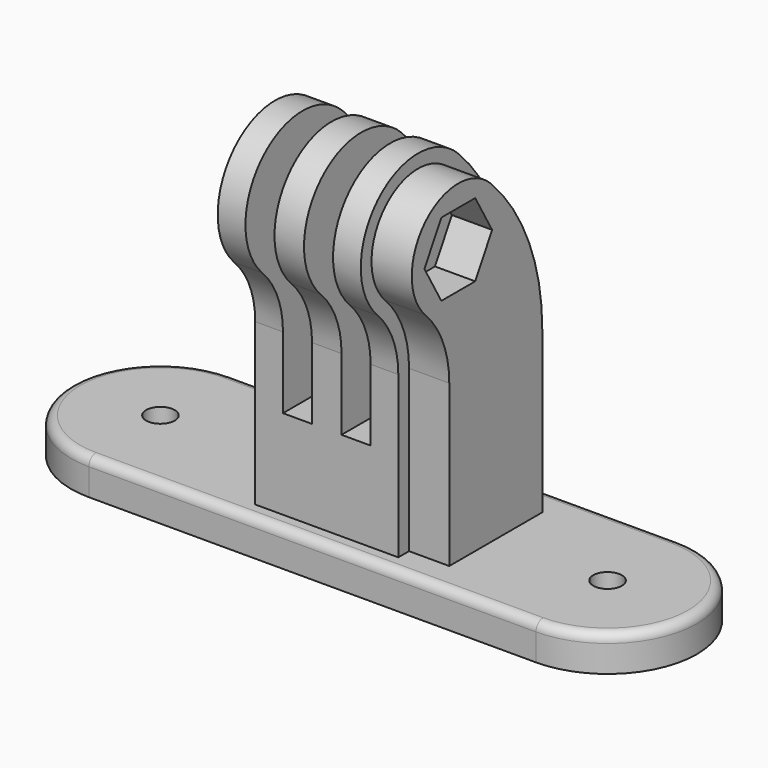
from build123d import *

# Parameters (mm, degrees)
PAD_DEPTH       = 4
SKETCH001_R     = 1.6
POCKET_DEPTH    = 4.001
SKETCH002_W     = 16
SKETCH002_H     = 16
PAD001_DEPTH    = 10
PAD002_DEPTH    = 3.1
PAD003_DEPTH    = 1.65
SKETCH005_R     = 2.6
POCKET001_DEPTH = 43.001
PAD004_DEPTH    = 4.5
POCKET002_DEPTH = 4.5
FILLET_R        = 1
PAD009_DEPTH    = 4
SKETCH013_R     = 1.6
POCKET004_DEPTH = 4.001
SKETCH014_W     = 16
SKETCH014_H     = 16
PAD008_DEPTH    = 10
PAD007_DEPTH    = 3.1
PAD005_DEPTH    = 1.65
SKETCH010_R     = 2.6
POCKET003_DEPTH = 43.001
PAD006_DEPTH    = 4.5
POCKET005_DEPTH = 4.5
FILLET001_R     = 1


with BuildPart() as straighttwoscrews:
    # Sketch → Pad (new body)
    with BuildSketch(Plane.XY):
        with BuildLine():
            Line((-25, 10), (25, 10))
            ThreePointArc((25, -10), (35, 0), (25, 10))
            Line((-25, -10), (25, -10))
            ThreePointArc((-25, 10), (-35, 0), (-25, -10))
        make_face()
    extrude(amount=PAD_DEPTH)

    # Sketch001 (on Face6 of Pad) → Pocket (cut, through all)
    with BuildSketch(Plane.XY.offset(4)):
        with Locations((-25, 0)):
            Circle(SKETCH001_R)
        with Locations((25, 0)):
            Circle(SKETCH001_R)
    extrude(amount=-POCKET_DEPTH, mode=Mode.SUBTRACT)

    # Sketch002 (on Face5 of Pocket) → Pad001 (join)
    with BuildSketch(Plane.XY.offset(4)):
        Rectangle(SKETCH002_W, SKETCH002_H)
    extrude(amount=PAD001_DEPTH)

    # Sketch003 (on Face9 of Pad001) → Pad002 (join)
    with BuildSketch(Plane.YZ.offset(8)):
        with BuildLine():
            Line((-8, 14), (-8, 22))
            ThreePointArc((8, 22), (0, 30), (-8, 22))
            Line((8, 14), (8, 22))
            Line((-8, 14), (8, 14))
        make_face()
    pad002 = extrude(amount=-PAD002_DEPTH)

    # Mirrored: Pad002 across YZ
    add(pad002.mirror(Plane.YZ))

    # Sketch004 → Pad003 (join, symmetric)
    with BuildSketch(Plane.YZ):
        with BuildLine():
            Line((-8, 14), (8, 14))
            Line((8, 14), (8, 22))
            ThreePointArc((8, 22), (0, 30), (-8, 22))
            Line((-8, 14), (-8, 22))
        make_face()
    extrude(amount=PAD003_DEPTH, both=True)

    # Sketch005 (on Face13 of Pad003) → Pocket001 (cut, through all)
    with BuildSketch(Plane.YZ.offset(8)):
        with Locations((0, 22)):
            Circle(SKETCH005_R)
    extrude(amount=-POCKET001_DEPTH, mode=Mode.SUBTRACT)

    # Sketch006 (on Face9 of Pocket001) → Pad004 (join)
    with BuildSketch(Plane.YZ.offset(8)):
        with BuildLine():
            Line((-6.5, 4), (-6.5, 22))
            ThreePointArc((6.5, 22), (0, 28.5), (-6.5, 22))
            Line((6.5, 4), (6.5, 22))
            Line((-6.5, 4), (6.5, 4))
        make_face()
    extrude(amount=PAD004_DEPTH)

    # Sketch007 (on Face14 of Pad004) → Pocket002 (cut)
    with BuildSketch(Plane.YZ.offset(12.5)):
        Polygon((2.367136, 26.1), (-2.367136, 26.1), (-4.734272, 22), (-2.367136, 17.9), (2.367136, 17.9), (4.734272, 22), align=None)
    extrude(amount=-POCKET002_DEPTH, mode=Mode.SUBTRACT)

    # Fillet
    fillet_edges = [straighttwoscrews.edges().sort_by_distance(p)[0] for p in [
        (0, 10, 4),
        (35, 0, 4),
        (0, -10, 4),
        (-35, 0, 4),
    ]]
    fillet(fillet_edges, radius=FILLET_R)


with BuildPart() as curvedtwoscrews001:
    # Sketch012 → Pad009 (new body)
    with BuildSketch(Plane.XY):
        with BuildLine():
            Line((-25, 10), (25, 10))
            ThreePointArc((25, -10), (35, 0), (25, 10))
            Line((-25, -10), (25, -10))
            ThreePointArc((-25, 10), (-35, 0), (-25, -10))
        make_face()
    extrude(amount=PAD009_DEPTH)

    # Sketch013 (on Face6 of Pad009) → Pocket004 (cut, through all)
    with BuildSketch(Plane.XY.offset(4)):
        with Locations((-25, 0)):
            Circle(SKETCH013_R)
        with Locations((25, 0)):
            Circle(SKETCH013_R)
    extrude(amount=-POCKET004_DEPTH, mode=Mode.SUBTRACT)

    # Sketch014 (on Face5 of Pocket004) → Pad008 (join)
    with BuildSketch(Plane.XY.offset(4)):
        Rectangle(SKETCH014_W, SKETCH014_H)
    extrude(amount=PAD008_DEPTH)

    # Sketch015 (on Face9 of Pad008) → Pad007 (join)
    with BuildSketch(Plane.YZ.offset(8)):
        with BuildLine():
            Line((-8, 14), (-8, 22))
            ThreePointArc((-8, 22), (-8.753554, 25.788373), (-10.899495, 29))
            ThreePointArc((0.414214, 40.313708), (-10.899495, 40.313708), (-10.899495, 29))
            ThreePointArc((8, 22), (6.028518, 31.911308), (0.414214, 40.313708))
            Line((8, 14), (8, 22))
            Line((-8, 14), (8, 14))
        make_face()
    pad007 = extrude(amount=-PAD007_DEPTH)

    # Mirrored001: Pad007 across YZ
    add(pad007.mirror(Plane.YZ))

    # Sketch011 → Pad005 (join, symmetric)
    with BuildSketch(Plane.YZ):
        with BuildLine():
            Line((-8, 14), (8, 14))
            Line((8, 14), (8, 22))
            ThreePointArc((8, 22), (6.028518, 31.911308), (0.414214, 40.313708))
            ThreePointArc((0.414214, 40.313708), (-10.899495, 40.313708), (-10.899495, 29))
            ThreePointArc((-8, 22), (-8.753554, 25.788373), (-10.899495, 29))
            Line((-8, 14), (-8, 22))
        make_face()
    extrude(amount=PAD005_DEPTH, both=True)

    # Sketch010 (on Face13 of Pad005) → Pocket003 (cut, through all)
    with BuildSketch(Plane.YZ.offset(8)):
        with Locations((-5.242641, 34.656854)):
            Circle(SKETCH010_R)
    extrude(amount=-POCKET003_DEPTH, mode=Mode.SUBTRACT)

    # Sketch009 (on Face9 of Pocket003) → Pad006 (join)
    with BuildSketch(Plane.YZ.offset(8)):
        with BuildLine():
            Line((-6.5, 4), (-6.5, 22))
            ThreePointArc((-6.5, 22), (-7.367735, 26.362398), (-9.838835, 30.06066))
            ThreePointArc((-0.646447, 39.253048), (-9.838835, 39.253048), (-9.838835, 30.06066))
            ThreePointArc((6.5, 22), (4.642699, 31.337282), (-0.646447, 39.253048))
            Line((6.5, 4), (6.5, 22))
            Line((-6.5, 4), (6.5, 4))
        make_face()
    extrude(amount=PAD006_DEPTH)

    # Sketch008 (on Face14 of Pad006) → Pocket005 (cut)
    with BuildSketch(Plane.YZ.offset(12.5)):
        Polygon((-2.875505, 38.756854), (-7.609777, 38.756854), (-9.976913, 34.656854), (-7.609777, 30.556854), (-2.875505, 30.556854), (-0.508368, 34.656854), align=None)
    extrude(amount=-POCKET005_DEPTH, mode=Mode.SUBTRACT)

    # Fillet001
    fillet001_edges = [curvedtwoscrews001.edges().sort_by_distance(p)[0] for p in [
        (0, 10, 4),
        (35, 0, 4),
        (0, -10, 4),
        (-35, 0, 4),
    ]]
    fillet(fillet001_edges, radius=FILLET001_R)


solid = Compound([straighttwoscrews.part, curvedtwoscrews001.part])
